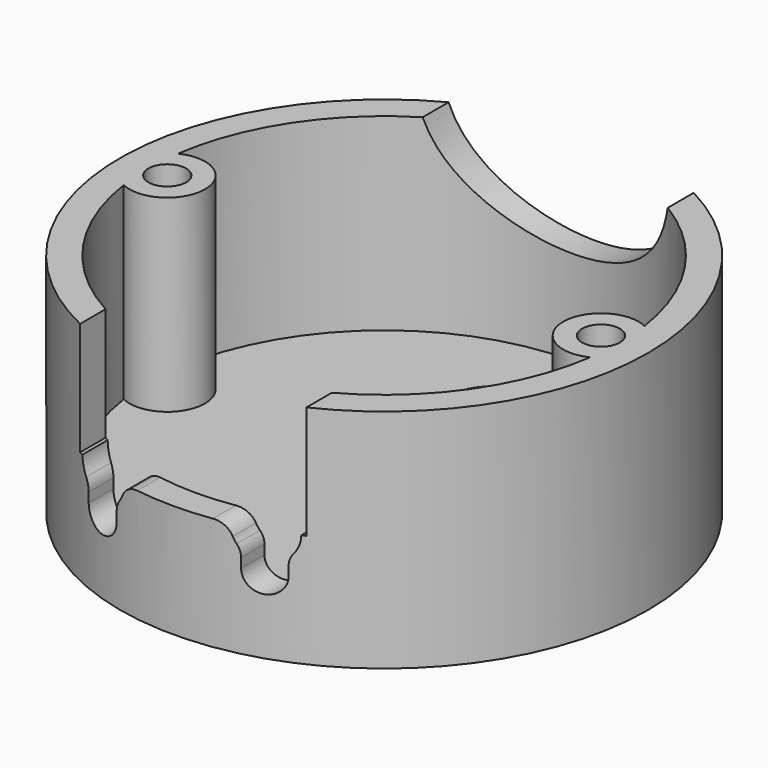
from build123d import *

# Parameters (mm, degrees)
SKETCH_R        = 14
PAD_DEPTH       = 12
SKETCH001_R     = 12.5
POCKET_DEPTH    = 10
SKETCH002_R     = 1.25
SKETCH002_R_2   = 2
POCKET001_DEPTH = 5
SKETCH003_R     = 2
PAD001_DEPTH    = 10
SKETCH004_R     = 1
POCKET002_DEPTH = 8
SKETCH005_R     = 6.725
POCKET003_DEPTH = 20
SKETCH006_W     = 12
SKETCH006_H     = 6
POCKET004_DEPTH = 20
POCKET005_DEPTH = 20
FILLET_R        = 1


with BuildPart() as part:
    # Sketch → Pad (new body)
    with BuildSketch(Plane.XY.offset(4)):
        Circle(SKETCH_R)
    extrude(amount=PAD_DEPTH)

    # Sketch001 (on Face3 of Pad) → Pocket (cut)
    with BuildSketch(Plane.XY.offset(16)):
        Circle(SKETCH001_R)
    extrude(amount=-POCKET_DEPTH, mode=Mode.SUBTRACT)

    # Sketch002 (on Face5 of Pocket) → Pocket001 (cut)
    with BuildSketch(Plane.XY.offset(6)):
        Circle(SKETCH002_R)
        with Locations((0, 7)):
            Circle(SKETCH002_R_2)
    extrude(amount=-POCKET001_DEPTH, mode=Mode.SUBTRACT)

    # Sketch003 (on Face7 of Pocket001) → Pad001 (join)
    with BuildSketch(Plane.XY.offset(6)):
        with Locations((-11.5, 0)):
            Circle(SKETCH003_R)
        with Locations((11.5, 0)):
            Circle(SKETCH003_R)
    extrude(amount=PAD001_DEPTH)

    # Sketch004 (on Face3 of Pad001) → Pocket002 (cut)
    with BuildSketch(Plane.XY.offset(16)):
        with Locations((-11.5, 0)):
            Circle(SKETCH004_R)
        with Locations((11.5, 0)):
            Circle(SKETCH004_R)
    extrude(amount=-POCKET002_DEPTH, mode=Mode.SUBTRACT)

    # Sketch005 → Pocket003 (cut)
    with BuildSketch(Plane.XZ):
        with Locations((0, 17.725)):
            Circle(SKETCH005_R)
    extrude(amount=-POCKET003_DEPTH, mode=Mode.SUBTRACT)

    # Sketch006 → Pocket004 (cut)
    with BuildSketch(Plane.XZ):
        with Locations((0, 13)):
            Rectangle(SKETCH006_W, SKETCH006_H)
    extrude(amount=POCKET004_DEPTH, mode=Mode.SUBTRACT)

    # Sketch007 → Pocket005 (cut)
    with BuildSketch(Plane.XZ):
        with BuildLine():
            ThreePointArc((5.3, 8.881966), (4.3, 11.5), (3.3, 8.881966))
            Line((3.3, 8.881966), (3.3, 8))
            ThreePointArc((3.3, 8), (4.3, 7), (5.3, 8))
            Line((5.3, 8), (5.3, 8.881966))
        make_face()
    pocket005 = extrude(amount=POCKET005_DEPTH, mode=Mode.SUBTRACT)

    # Mirrored: Pocket005 across Sketch007 V_Axis
    add(pocket005.mirror(Plane(origin=(0, 0, 0), x_dir=(0, -1, 0), z_dir=(1, 0, 0))), mode=Mode.SUBTRACT)

    # Fillet
    fillet_edges = [part.edges().sort_by_distance(p)[0] for p in [
        (3.3, -12.831024, 8.881966),
        (5.3, -12.139393, 8.881966),
        (-3.3, -12.831024, 8.881966),
        (-5.3, -12.139393, 8.881966),
        (-2.8, -12.949753, 10),
        (2.8, -12.949753, 10),
    ]]
    fillet(fillet_edges, radius=FILLET_R)


with BuildPart() as part_1:
    # Body placement: moved
    add(part.part.moved(Location((0, 0, -6))))


solid = part_1.part
